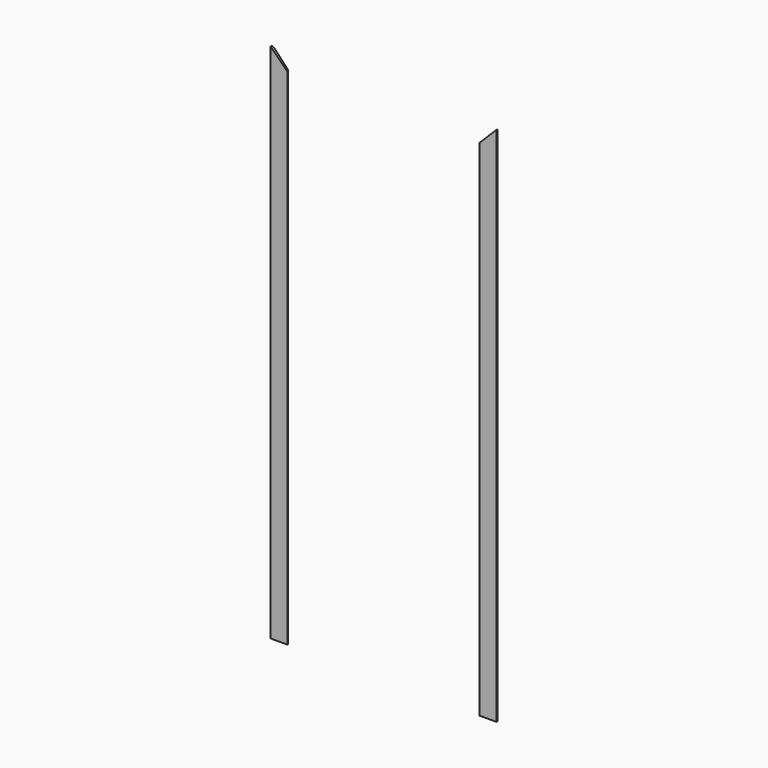
from build123d import *

# Parameters (mm, degrees)
EXTRUDE039434_DEPTH = 500
SKETCH224_W         = 1600
SKETCH224_H         = 400
EXTRUDE039435_DEPTH = 500


with BuildPart() as extrude039434_internal_superior:
    # Sketch223 (on Sketch) → Extrude039434 (new body, symmetric)
    with BuildSketch(Plane.XZ):
        Polygon((-600, 2300), (600, 2300), (200, 1900), (-200, 1900), align=None)
    extrude(amount=EXTRUDE039434_DEPTH, both=True)


with BuildPart() as extrude039435:
    # Sketch224 (on Sketch) → Extrude039435 (new body, symmetric)
    with BuildSketch(Plane.XZ.offset(140)):
        with Locations((0, -200)):
            Rectangle(SKETCH224_W, SKETCH224_H)
    extrude(amount=EXTRUDE039435_DEPTH, both=True)


with BuildPart() as internal_trim_vertical:
    # Sweep012: sweep along a path in Sketch195
    with BuildLine(Plane.XZ) as sweep012_path:
        Line((-400, 2100), (-400, 0))
        Line((-400, 0), (400, 0))
        Line((400, 0), (400, 2100))
        Line((400, 2100), (-400, 2100))
    # Clone2D028 (on Sketch) → Sweep012 (sweep)
    with BuildSketch(Plane.ZY):
        with BuildLine():
            Line((-61.571224, 10), (-5.678418, 7))
            ThreePointArc((-5.678418, 7), (-1.645147, 5.136003), (0, 1.008624))
            Line((0, 1.008624), (0, 0))
            Line((0, 0), (-70, 0))
            Line((-70, 0), (-70, 2.011499))
            ThreePointArc((-70, 2.011499), (-67.503171, 7.81797), (-61.571224, 10))
        make_face()
    sweep(path=sweep012_path.line, is_frenet=True, transition=Transition.RIGHT)

    # Cut073: cut Extrude039435
    add(extrude039435.part, mode=Mode.SUBTRACT)

    # Cut072: cut Extrude039434_Internal_superior_
    add(extrude039434_internal_superior.part, mode=Mode.SUBTRACT)


solid = internal_trim_vertical.part
